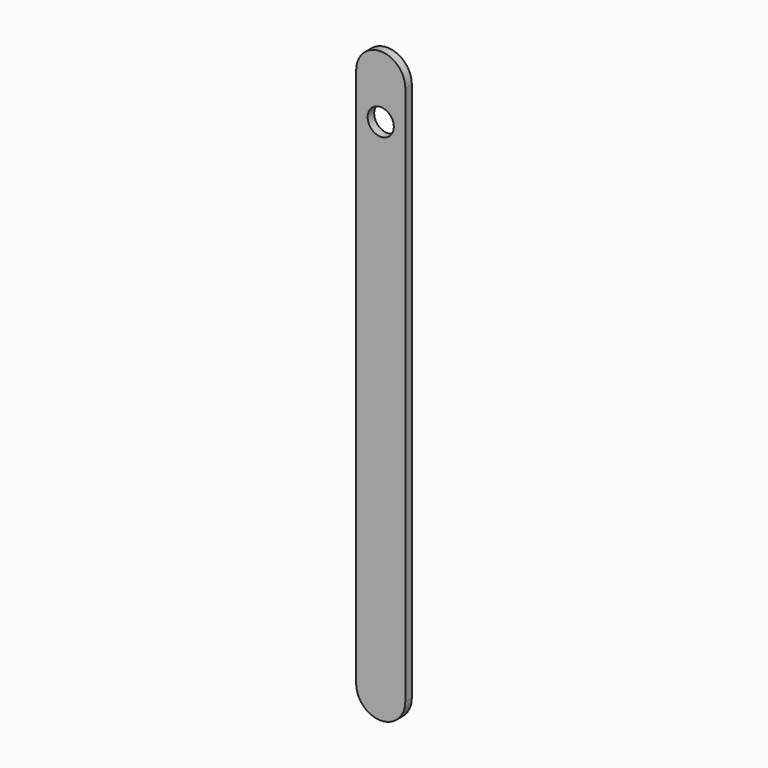
from build123d import *

# Parameters (mm, degrees)
F0_W     = 9.525
F0_H     = 104.775
F1_DEPTH = 0.79375
F2_R     = 2.54
F3_DEPTH = 1.5875


with BuildPart() as f1:
    # F0 (on Front) → F1 (new body, symmetric)
    with BuildSketch(Plane.XZ):
        with BuildLine():
            ThreePointArc((4.7625, 52.3875), (0, 57.15), (-4.7625, 52.3875))
            Line((-4.7625, 52.3875), (4.7625, 52.3875))
        make_face()
        Rectangle(F0_W, F0_H)
        with BuildLine():
            Line((4.7625, -52.3875), (-4.7625, -52.3875))
            ThreePointArc((-4.7625, -52.3875), (0, -57.15), (4.7625, -52.3875))
        make_face()
    extrude(amount=F1_DEPTH, both=True)

    # F2 (on face) → F3 (cut, through all)
    with BuildSketch(Plane(origin=(0, 0.79375, 0), x_dir=(-1, 0, 0), z_dir=(0, 1, 0))):
        with Locations((0, 45.085)):
            Circle(F2_R)
    extrude(amount=-F3_DEPTH, mode=Mode.SUBTRACT)


solid = f1.part
